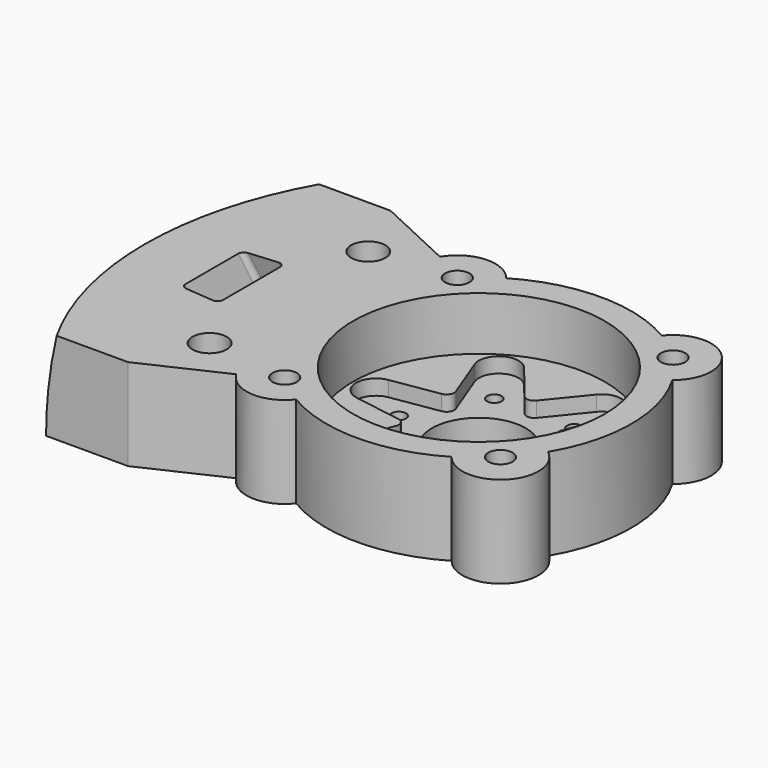
from build123d import *

# Parameters (mm, degrees)
PAD_DEPTH       = 12
SKETCH001_R     = 1.6
POCKET_DEPTH    = 12.001
SKETCH006_R     = 2.85
POCKET005_DEPTH = 8
SKETCH002_R     = 16.5
POCKET001_DEPTH = 7
SKETCH003_R     = 6.15
POCKET002_DEPTH = 12.001
POCKET003_DEPTH = 2
SKETCH005_R     = 0.95
POCKET004_DEPTH = 12.001
SKETCH007_R     = 2.25
POCKET006_DEPTH = 12.001
SKETCH008_R     = 1.6
POCKET007_DEPTH = 8
SKETCH009_W     = 11
SKETCH009_H     = 5.8
POCKET008_DEPTH = 3
GROOVE_ANGLE    = 90
CHAMFER_1_ANGLE = 45
CHAMFER_1_SIZE  = 1.2
CHAMFER_2_ANGLE = 45
CHAMFER_2_SIZE  = 1.2
CHAMFER_3_ANGLE = 45
CHAMFER_3_SIZE  = 1.2
CHAMFER_4_ANGLE = 45
CHAMFER_4_SIZE  = 1.2


with BuildPart() as part:
    # Sketch → Pad (new body)
    with BuildSketch(Plane.XY):
        with BuildLine():
            ThreePointArc((10.19239, 17.207998), (0, 20), (-10.19239, 17.207998))
            ThreePointArc((-10.19239, 17.207998), (-14.460107, 19.132015), (-18.449087, 16.681855))
            Line((-28.781633, 21.5), (-18.449087, 16.681855))
            Line((-28.781633, 21.5), (-39.531633, 21.5))
            ThreePointArc((-39.531633, 21.5), (-45, 0), (-39.531633, -21.5))
            Line((-39.531633, -21.5), (-28.781633, -21.5))
            Line((-28.781633, -21.5), (-18.449087, -16.681855))
            ThreePointArc((-18.449087, -16.681855), (-14.460107, -19.132015), (-10.19239, -17.207998))
            ThreePointArc((-10.19239, -17.207998), (0, -20), (10.19239, -17.207998))
            ThreePointArc((10.19239, -17.207998), (17.67767, -17.67767), (17.207998, -10.19239))
            ThreePointArc((17.207998, -10.19239), (20, 0), (17.207998, 10.19239))
            ThreePointArc((17.207998, 10.19239), (17.67767, 17.67767), (10.19239, 17.207998))
        make_face()
    extrude(amount=PAD_DEPTH)

    # Sketch001 → Pocket (cut, through all)
    with BuildSketch(Plane.XY):
        with Locations((-14.142136, 14.142136)):
            Circle(SKETCH001_R)
        with Locations((14.142136, 14.142136)):
            Circle(SKETCH001_R)
        with Locations((14.142136, -14.142136)):
            Circle(SKETCH001_R)
        with Locations((-14.142136, -14.142136)):
            Circle(SKETCH001_R)
    extrude(amount=POCKET_DEPTH, mode=Mode.SUBTRACT)

    # Sketch006 → Pocket005 (cut)
    with BuildSketch(Plane.XY):
        with Locations((-14.142136, 14.142136)):
            Circle(SKETCH006_R)
        with Locations((14.142136, 14.142136)):
            Circle(SKETCH006_R)
        with Locations((14.142136, -14.142136)):
            Circle(SKETCH006_R)
        with Locations((-14.142136, -14.142136)):
            Circle(SKETCH006_R)
    extrude(amount=POCKET005_DEPTH, mode=Mode.SUBTRACT)

    # Sketch002 → Pocket001 (cut)
    with BuildSketch(Plane.XY.offset(12)):
        Circle(SKETCH002_R)
    extrude(amount=-POCKET001_DEPTH, mode=Mode.SUBTRACT)

    # Sketch003 → Pocket002 (cut, through all)
    with BuildSketch(Plane.XY):
        Circle(SKETCH003_R)
    extrude(amount=POCKET002_DEPTH, mode=Mode.SUBTRACT)

    # Sketch004 → Pocket003 (cut)
    with BuildSketch(Plane.XY.offset(5)):
        with BuildLine():
            ThreePointArc((9.178305, 10.762186), (8.05, 13.943009), (4.731174, 13.329739))
            Line((4.731174, 13.329739), (0.776472, 8.456766))
            ThreePointArc((-0.776472, 8.456766), (0, 8.086918), (0.776472, 8.456766))
            Line((-0.776472, 8.456766), (-4.731174, 13.329739))
            ThreePointArc((-4.731174, 13.329739), (-8.05, 13.943009), (-9.178305, 10.762186))
            Line((-9.178305, 10.762186), (-6.935538, 4.900827))
            ThreePointArc((-7.71201, 3.555939), (-7.003477, 4.043459), (-6.935538, 4.900827))
            Line((-7.71201, 3.555939), (-13.909479, 2.567553))
            ThreePointArc((-13.909479, 2.567553), (-16.1, 0), (-13.909479, -2.567553))
            Line((-13.909479, -2.567553), (-7.71201, -3.555939))
            ThreePointArc((-6.935538, -4.900827), (-7.003477, -4.043459), (-7.71201, -3.555939))
            Line((-6.935538, -4.900827), (-9.178305, -10.762186))
            ThreePointArc((-9.178305, -10.762186), (-8.05, -13.943009), (-4.731174, -13.329739))
            Line((-0.776472, -8.456766), (-4.731174, -13.329739))
            ThreePointArc((0.776472, -8.456766), (0, -8.086918), (-0.776472, -8.456766))
            Line((0.776472, -8.456766), (4.731174, -13.329739))
            ThreePointArc((4.731174, -13.329739), (8.05, -13.943009), (9.178305, -10.762186))
            Line((9.178305, -10.762186), (6.935538, -4.900827))
            ThreePointArc((7.71201, -3.555939), (7.003477, -4.043459), (6.935538, -4.900827))
            Line((7.71201, -3.555939), (13.909479, -2.567553))
            ThreePointArc((13.909479, -2.567553), (16.1, 0), (13.909479, 2.567553))
            Line((13.909479, 2.567553), (7.71201, 3.555939))
            ThreePointArc((6.935538, 4.900827), (7.003477, 4.043459), (7.71201, 3.555939))
            Line((6.935538, 4.900827), (9.178305, 10.762186))
        make_face()
    extrude(amount=-POCKET003_DEPTH, mode=Mode.SUBTRACT)

    # Sketch005 → Pocket004 (cut, through all)
    with BuildSketch(Plane.XY):
        with Locations((5.25, 9.093267)):
            Circle(SKETCH005_R)
        with Locations((10.5, 0)):
            Circle(SKETCH005_R)
        with Locations((-5.25, 9.093267)):
            Circle(SKETCH005_R)
        with Locations((-10.5, 0)):
            Circle(SKETCH005_R)
        with Locations((-5.25, -9.093267)):
            Circle(SKETCH005_R)
        with Locations((5.25, -9.093267)):
            Circle(SKETCH005_R)
    extrude(amount=POCKET004_DEPTH, mode=Mode.SUBTRACT)

    # Sketch007 → Pocket006 (cut, through all)
    with BuildSketch(Plane.XY):
        with Locations((-24.9, 13)):
            Circle(SKETCH007_R)
        with Locations((-24.9, -13)):
            Circle(SKETCH007_R)
    extrude(amount=POCKET006_DEPTH, mode=Mode.SUBTRACT)

    # Sketch008 → Pocket007 (cut)
    with BuildSketch(Plane.XY):
        with Locations((-40.5, 0)):
            Circle(SKETCH008_R)
        with Locations((-36.705465, 17.11604)):
            Circle(SKETCH008_R)
        with Locations((-36.705465, -17.11604)):
            Circle(SKETCH008_R)
    extrude(amount=POCKET007_DEPTH, mode=Mode.SUBTRACT)

    # Sketch009 → Pocket008 (cut)
    with BuildSketch(Plane.XY.offset(3)):
        with Locations((-42.8, 0)):
            Rectangle(SKETCH009_W, SKETCH009_H)
        with Locations((-39.005465, 17.11604)):
            Rectangle(SKETCH009_W, SKETCH009_H)
        with Locations((-39.005465, -17.11604)):
            Rectangle(SKETCH009_W, SKETCH009_H)
    extrude(amount=POCKET008_DEPTH, mode=Mode.SUBTRACT)

    # Sketch010 → SubtractiveLoft section 0
    with BuildSketch(Plane.XY):
        with BuildLine():
            Line((-30.7, -7.628728), (-30.7, 7.628728))
            ThreePointArc((-29.787156, 8.624922), (-30.437277, 8.304318), (-30.7, 7.628728))
            Line((-29.787156, 8.624922), (-26.587156, 8.904886))
            ThreePointArc((-25.5, 7.908691), (-25.82441, 8.645969), (-26.587156, 8.904886))
            Line((-25.5, 7.908691), (-25.5, -7.908691))
            ThreePointArc((-26.587156, -8.904886), (-25.82441, -8.645969), (-25.5, -7.908691))
            Line((-26.587156, -8.904886), (-29.787156, -8.624922))
            ThreePointArc((-30.7, -7.628728), (-30.437277, -8.304318), (-29.787156, -8.624922))
        make_face()
    # Sketch011 → SubtractiveLoft section 1
    with BuildSketch(Plane.XY.offset(12)):
        with BuildLine():
            Line((-35, 4.312752), (-35, -4.312752))
            ThreePointArc((-35, -4.312752), (-34.802958, -4.819444), (-34.315367, -5.059898))
            Line((-34.315367, -5.059898), (-30.615367, -5.383606))
            ThreePointArc((-30.615367, -5.383606), (-30.043307, -5.189418), (-29.8, -4.63646))
            Line((-29.8, -4.63646), (-29.8, 4.63646))
            ThreePointArc((-29.8, 4.63646), (-30.043307, 5.189418), (-30.615367, 5.383606))
            Line((-30.615367, 5.383606), (-34.315367, 5.059898))
            ThreePointArc((-34.315367, 5.059898), (-34.802958, 4.819444), (-35, 4.312752))
        make_face()
    loft(mode=Mode.SUBTRACT)

    # Sketch012 → Groove (revolve, symmetric, cut)
    with BuildSketch(Plane.XZ) as groove_sk:
        with BuildLine():
            Line((-45, 0), (-45, 12))
            Line((-45, 12), (-43.787754, 12))
            ThreePointArc((-43.787754, 12), (-44.696169, 6.030538), (-45, 0))
        make_face()
    revolve(axis=Axis((0, 0, 0), (0, 0, 1)), revolution_arc=GROOVE_ANGLE / 2, mode=Mode.SUBTRACT)
    revolve(groove_sk.sketch, axis=Axis((0, 0, 0), (0, 0, -1)), revolution_arc=GROOVE_ANGLE / 2, mode=Mode.SUBTRACT)

    # Chamfer 1
    chamfer_1_edges = [part.edges().sort_by_distance(p)[0] for p in [
        (-15.742136, 14.142136, 8),
    ]]
    chamfer_1_side = part.faces().sort_by_distance((-15.742136, 14.142136, 10))[0]
    chamfer(chamfer_1_edges, length=CHAMFER_1_SIZE, angle=CHAMFER_1_ANGLE, reference=chamfer_1_side)

    # Chamfer 2
    chamfer_2_edges = [part.edges().sort_by_distance(p)[0] for p in [
        (12.542136, 14.142136, 8),
    ]]
    chamfer_2_side = part.faces().sort_by_distance((12.542136, 14.142136, 10))[0]
    chamfer(chamfer_2_edges, length=CHAMFER_2_SIZE, angle=CHAMFER_2_ANGLE, reference=chamfer_2_side)

    # Chamfer 3
    chamfer_3_edges = [part.edges().sort_by_distance(p)[0] for p in [
        (12.542136, -14.142136, 8),
    ]]
    chamfer_3_side = part.faces().sort_by_distance((12.542136, -14.142136, 10))[0]
    chamfer(chamfer_3_edges, length=CHAMFER_3_SIZE, angle=CHAMFER_3_ANGLE, reference=chamfer_3_side)

    # Chamfer 4
    chamfer_4_edges = [part.edges().sort_by_distance(p)[0] for p in [
        (-15.742136, -14.142136, 8),
    ]]
    chamfer_4_side = part.faces().sort_by_distance((-15.742136, -14.142136, 10))[0]
    chamfer(chamfer_4_edges, length=CHAMFER_4_SIZE, angle=CHAMFER_4_ANGLE, reference=chamfer_4_side)


solid = part.part
